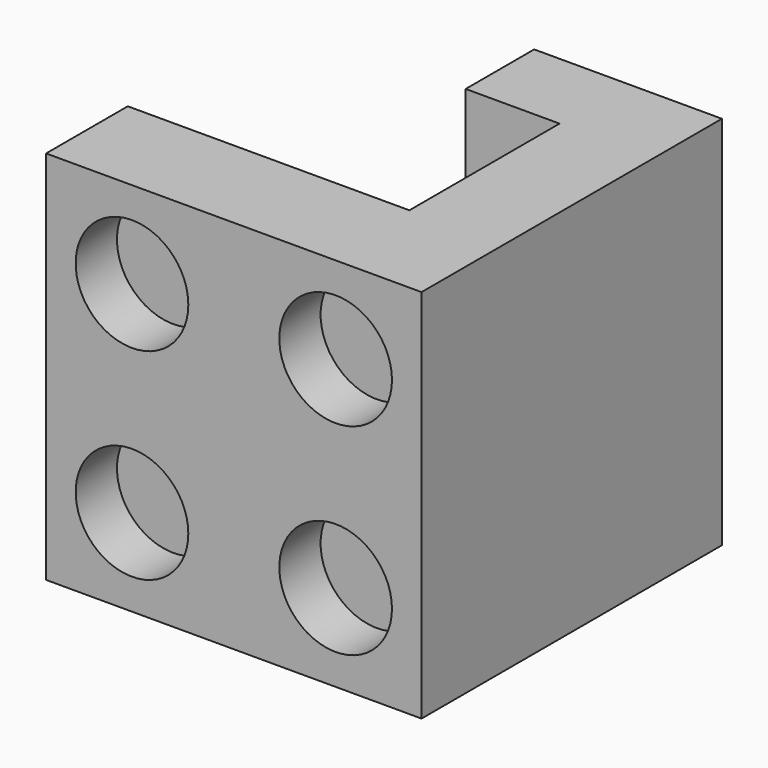
from build123d import *

# Parameters (mm, degrees)
F0_W     = 20
F0_H     = 20
F1_DEPTH = 20
F2_W     = 10
F2_H     = 4.5614074916
F3_DEPTH = 20
F4_R     = 3
F5_DEPTH = 2.75


with BuildPart() as f1:
    # F0 (on Top) → F1 (new body)
    with BuildSketch(Plane.XY):
        Rectangle(F0_W, F0_H)
    extrude(amount=F1_DEPTH)

    # F2 (on face) → F3 (cut)
    with BuildSketch(Plane.XY.offset(20)):
        Polygon((-10, -4.5614074916), (5, -4.5614074916), (5, 5.4385925084), (0, 5.4385925084), (-10, 5.4385925084), align=None)
        with Locations((-5, 7.7192962542)):
            Rectangle(F2_W, F2_H)
    extrude(amount=-F3_DEPTH, mode=Mode.SUBTRACT)

    # F4 (on face) → F5 (cut)
    with BuildSketch(Plane.XZ.offset(10)):
        with Locations((-5.4237376899, 4.6365144663)):
            Circle(F4_R)
        with Locations((-5.4237376899, 15.3634855337)):
            Circle(F4_R)
        with Locations((5.4237376899, 15.3634855337)):
            Circle(F4_R)
        with Locations((5.4237376899, 4.6365144663)):
            Circle(F4_R)
    extrude(amount=-F5_DEPTH, mode=Mode.SUBTRACT)


solid = f1.part
